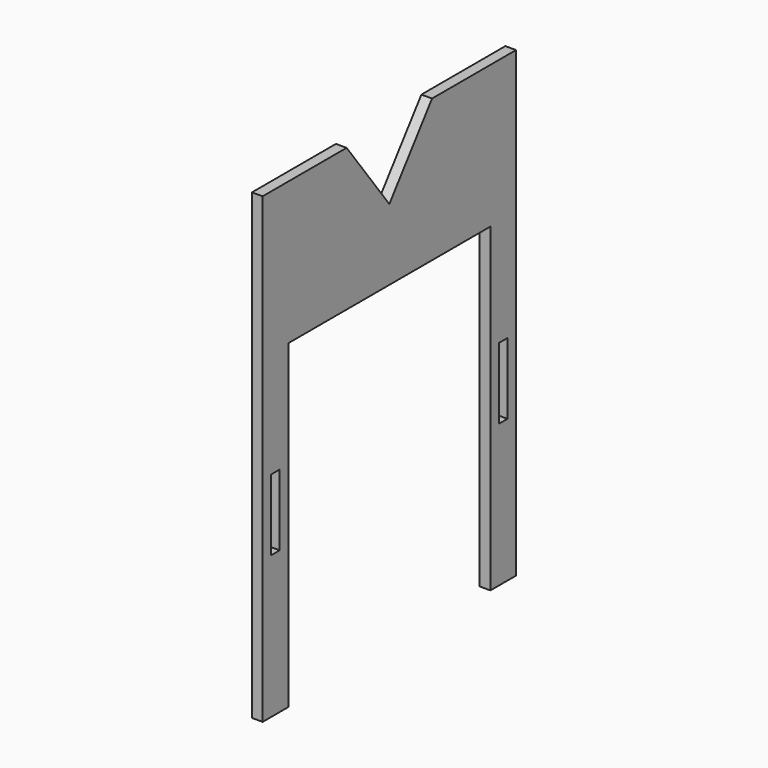
from build123d import *

# Parameters (mm, degrees)
F1_DEPTH = 3
F2_W     = 3
F2_H     = 20
F2_W_2   = 71
F2_H_2   = 90
F3_DEPTH = 25


with BuildPart() as f1:
    # F0 (on Right) → F1 (new body)
    with BuildSketch(Plane.YZ):
        Polygon((29.5, 130), (0, 130), (0, 0), (89, 0), (89, 130), (59.5, 130), (44.5, 110), align=None)
    extrude(amount=F1_DEPTH)

    # F2 (on face) → F3 (cut)
    with BuildSketch(Plane.YZ.offset(3)):
        with Locations((4.5, 50)):
            Rectangle(F2_W, F2_H)
        with Locations((84.5, 50)):
            Rectangle(F2_W, F2_H)
        with Locations((44.5, 45)):
            Rectangle(F2_W_2, F2_H_2)
    extrude(amount=-F3_DEPTH, mode=Mode.SUBTRACT)


solid = f1.part
